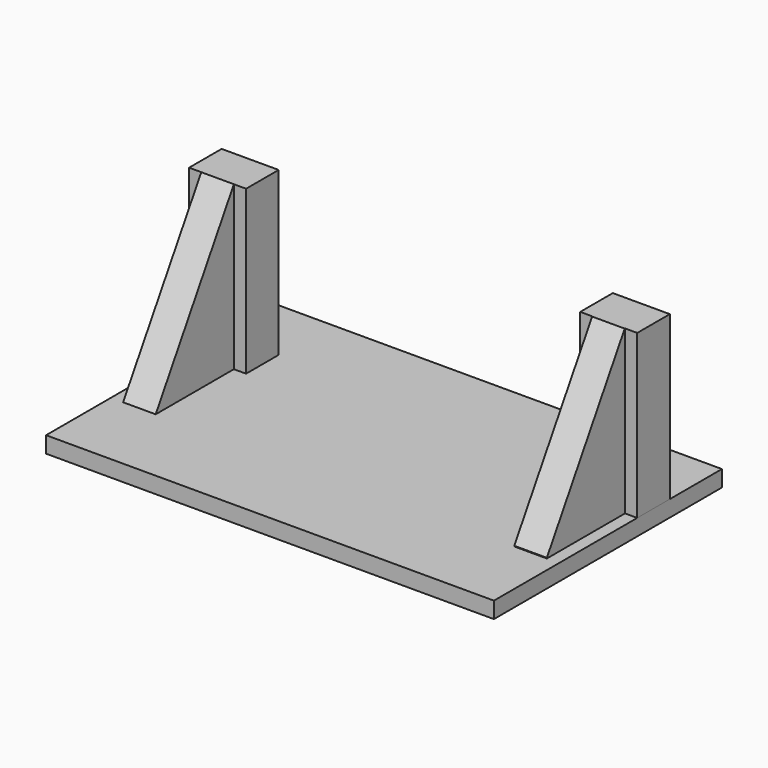
from build123d import *

# Parameters (mm, degrees)
F0_W      = 55
F0_H      = 35
F1_DEPTH  = 2
F3_W      = 4
F3_H      = 12
F4_DEPTH  = 20
F6_R      = 0.9
F7_DEPTH  = 7
F8_R      = 1.5
F8_R_2    = 0.9
F9_DEPTH  = 2
F11_DEPTH = 55


with BuildPart() as f1:
    # F0 (on Top) → F1 (new body)
    with BuildSketch(Plane.XY):
        Rectangle(F0_W, F0_H)
    extrude(amount=F1_DEPTH)


with BuildPart() as f4:
    # F3 (on face) → F4 (new body)
    with BuildSketch(Plane.XY.offset(2)):
        Polygon((-27.5, 9.45168), (-27.5, 4.45168), (-26, 4.45168), (-22, 4.45168), (-20.5, 4.45168), (-20.5, 9.45168), align=None)
        Polygon((27.5, 9.5), (20.5, 9.5), (20.5, 4.5), (22, 4.5), (26, 4.5), (27.5, 4.5), align=None)
        with Locations((-24, -1.54832)):
            Rectangle(F3_W, F3_H)
        with Locations((24, -1.5)):
            Rectangle(F3_W, F3_H)
    extrude(amount=F4_DEPTH)

    # F6 (on face) → F7 (cut)
    with BuildSketch(Plane.XZ.offset(-4.45168)):
        with Locations((-24, 16.986096)):
            Circle(F6_R)
        with Locations((-24, 7)):
            Circle(F6_R)
        with Locations((24.003841, 16.997389)):
            Circle(F6_R)
        with Locations((24.005156, 7.028514)):
            Circle(F6_R)
    extrude(amount=-F7_DEPTH, mode=Mode.SUBTRACT)

    # F8 (on face) → F9 (cut)
    with BuildSketch(Plane(origin=(0, 9.5, 0), x_dir=(-1, 0, 0), z_dir=(0, 1, 0))):
        with Locations((-24.003841, 16.997389)):
            Circle(F8_R)
        with Locations((-24.003841, 16.997389)):
            Circle(F8_R_2, mode=Mode.SUBTRACT)
        with Locations((-24.005156, 7.028514)):
            Circle(F8_R)
        with Locations((-24.005156, 7.028514)):
            Circle(F8_R_2, mode=Mode.SUBTRACT)
        with Locations((24.018068, 16.958425)):
            Circle(F8_R)
        with Locations((23.956954, 6.99716)):
            Circle(F8_R)
    extrude(amount=-F9_DEPTH, mode=Mode.SUBTRACT)

    # F10 (on face) → F11 (cut)
    with BuildSketch(Plane(origin=(-26, 0, 0), x_dir=(0, -1, 0), z_dir=(-1, 0, 0))):
        Polygon((-4.45168, 22), (7.54832, 2), (7.54832, 22), align=None)
    extrude(amount=-F11_DEPTH, mode=Mode.SUBTRACT)


solid = Compound([f1.part, f4.part])
